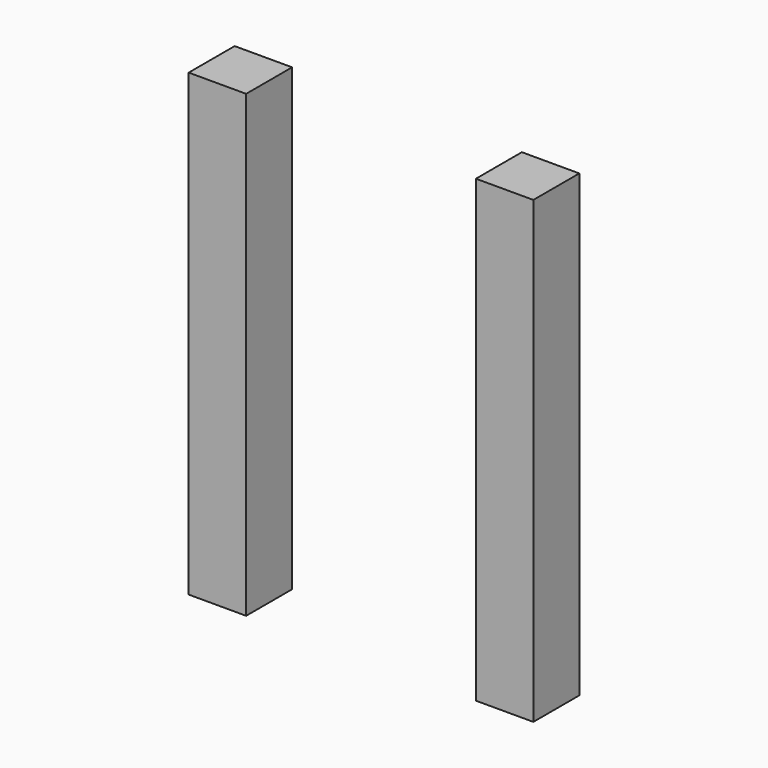
from build123d import *

# Parameters (mm, degrees)
BOX_W        = 5
BOX_H        = 5
BOX_DEPTH    = 40
BOX001_W     = 5
BOX001_H     = 5
BOX001_DEPTH = 40


with BuildPart() as cube:
    # Box → Box (new body)
    with BuildSketch(Plane.XY):
        with Locations((2.5, 2.5)):
            Rectangle(BOX_W, BOX_H)
    extrude(amount=BOX_DEPTH)


with BuildPart() as cube001:
    # Box001 → Box001 (new body)
    with BuildSketch(Plane(origin=(25, 0, 0), x_dir=(1, 0, 0), z_dir=(0, 0, 1))):
        with Locations((2.5, 2.5)):
            Rectangle(BOX001_W, BOX001_H)
    extrude(amount=BOX001_DEPTH)


solid = Compound([cube.part, cube001.part])
